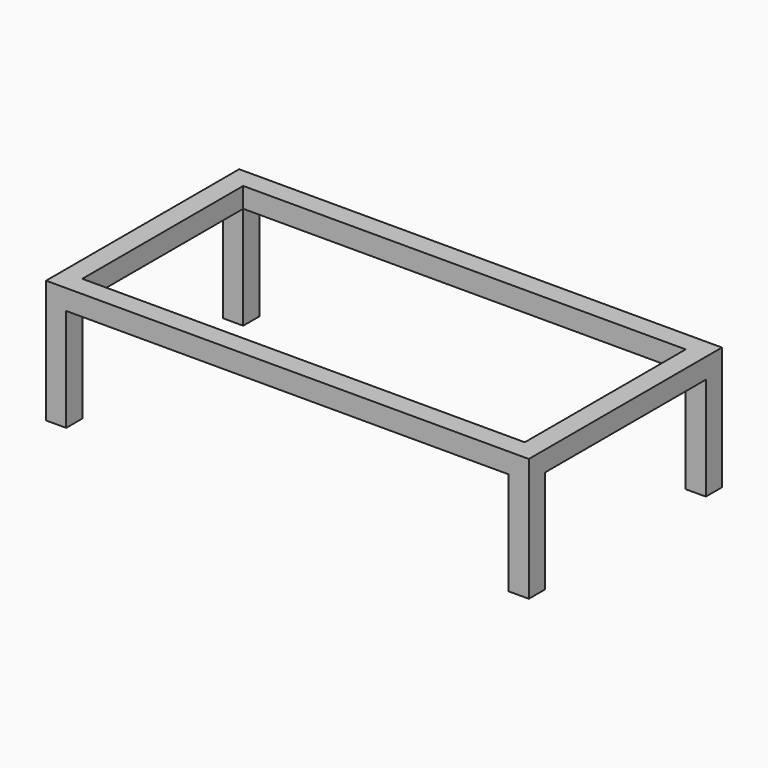
from build123d import *

# Parameters (mm, degrees)
F0_W     = 50
F0_H     = 50
F1_DEPTH = 256
F2_W     = 1100
F2_H     = 500
F3_DEPTH = 50


with BuildPart() as f1:
    # F0 (on Top) → F1 (new body)
    with BuildSketch(Plane.XY):
        with Locations((25, -25)):
            Rectangle(F0_W, F0_H)
    extrude(amount=F1_DEPTH)



with BuildPart() as f1b:
    # F0 (on Top) → F1, piece 2 (new body)
    with BuildSketch(Plane.XY):
        with Locations((25, 525)):
            Rectangle(F0_W, F0_H)
    extrude(amount=F1_DEPTH)


with BuildPart() as f1c:
    # F0 (on Top) → F1, piece 3 (new body)
    with BuildSketch(Plane.XY):
        with Locations((1175, -25)):
            Rectangle(F0_W, F0_H)
    extrude(amount=F1_DEPTH)


with BuildPart() as f1d:
    # F0 (on Top) → F1, piece 4 (new body)
    with BuildSketch(Plane.XY):
        with Locations((1175, 525)):
            Rectangle(F0_W, F0_H)
    extrude(amount=F1_DEPTH)


with BuildPart() as f1_1:
    add(f1.part)

    add(f1b.part)  # F3 merges F1b

    add(f1c.part)  # F3 merges F1c

    add(f1d.part)  # F3 merges F1d
    # F2 (on face) → F3 (join)
    with BuildSketch(Plane.XY.offset(256)):
        Polygon((0, 0), (0, -50), (50, -50), (1150, -50), (1200, -50), (1200, 0), (1200, 500), (1200, 550), (1150, 550), (50, 550), (0, 550), (0, 500), align=None)
        with Locations((600, 250)):
            Rectangle(F2_W, F2_H, mode=Mode.SUBTRACT)
    extrude(amount=F3_DEPTH)


solid = f1_1.part
